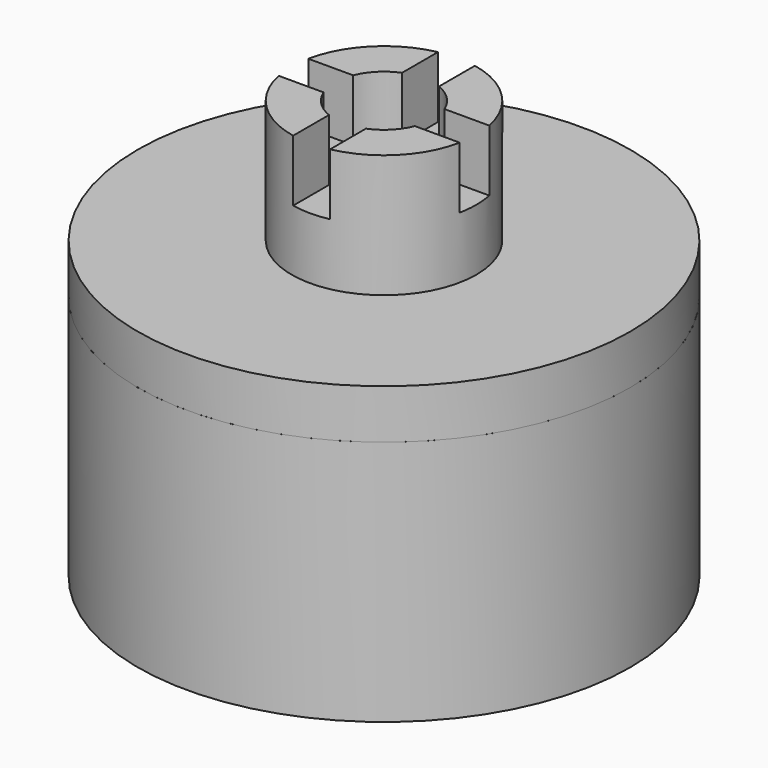
from build123d import *

# Parameters (mm, degrees)
F0_R      = 25.4
F1_DEPTH  = 25.4
F2_R      = 14.605
F3_DEPTH  = 19.05
F4_W      = 7.62
F4_H      = 3.81
F5_DEPTH  = 25.401
F7_W      = 17.78
F7_H      = 6.827337
F8_DEPTH  = 19.05
F10_DEPTH = 19.05
F11_R     = 25.4
F11_R_2   = 5.08
F12_DEPTH = 5.08
F13_R     = 9.525
F13_R_2   = 5.08
F14_DEPTH = 12.7
F16_DEPTH = 6.35


with BuildPart() as f1:
    # F0 (on Top) → F1 (new body)
    with BuildSketch(Plane.XY):
        Circle(F0_R)
    extrude(amount=F1_DEPTH)

    # F2 (on face) → F3 (cut)
    with BuildSketch(Plane.XY.offset(25.4)):
        with Locations((0, 8.255)):
            Circle(F2_R)
    extrude(amount=-F3_DEPTH, mode=Mode.SUBTRACT)

    # F4 (on Front) → F5 (cut, through all)
    with BuildSketch(Plane.XZ):
        with Locations((0, 23.495)):
            Rectangle(F4_W, F4_H)
    extrude(amount=-F5_DEPTH, mode=Mode.SUBTRACT)

    # F7 (on face) → F8 (cut, through all)
    with BuildSketch(Plane.XY.offset(25.4)):
        with Locations((0, 23.256331)):
            Rectangle(F7_W, F7_H)
    extrude(amount=-F8_DEPTH, mode=Mode.SUBTRACT)

    # F9 (on face) → F10 (cut, through all)
    with BuildSketch(Plane.XY.offset(25.4)):
        with BuildLine():
            Line((17.78, 12.065), (-17.78, 12.065))
            ThreePointArc((-17.78, 12.065), (-21.59, 8.255), (-17.78, 4.445))
            Line((-17.78, 4.445), (17.78, 4.445))
            ThreePointArc((17.78, 4.445), (21.59, 8.255), (17.78, 12.065))
        make_face()
    extrude(amount=-F10_DEPTH, mode=Mode.SUBTRACT)


with BuildPart() as f12:
    # F11 (on face) → F12 (new body)
    with BuildSketch(Plane.XY.offset(25.4)):
        Circle(F11_R)
        Circle(F11_R_2, mode=Mode.SUBTRACT)
    extrude(amount=F12_DEPTH)

    # F13 (on face) → F14 (join)
    with BuildSketch(Plane.XY.offset(30.48)):
        Circle(F13_R)
        Circle(F13_R_2, mode=Mode.SUBTRACT)
    extrude(amount=F14_DEPTH)

    # F15 (on face) → F16 (cut)
    with BuildSketch(Plane.XY.offset(43.18)):
        Polygon((1.905, 14.605), (-1.905, 14.605), (-1.905, 1.905), (-14.605, 1.905), (-14.605, -1.905), (-1.905, -1.905), (-1.905, -14.605), (1.905, -14.605), (1.905, -1.905), (14.605, -1.905), (14.605, 1.905), (1.905, 1.905), align=None)
    extrude(amount=-F16_DEPTH, mode=Mode.SUBTRACT)


solid = Compound([f1.part, f12.part])
